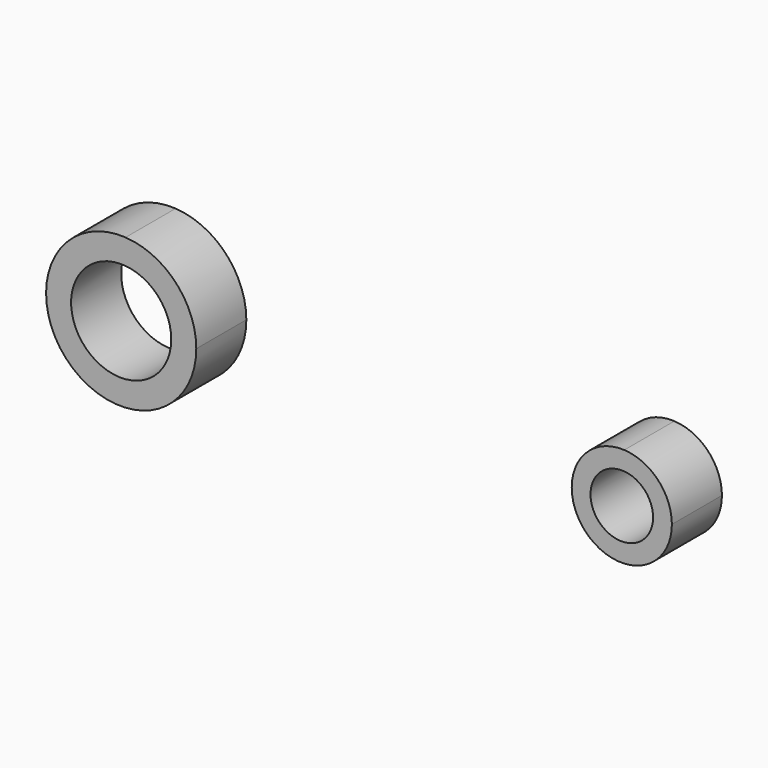
from build123d import *

# Parameters (mm, degrees)
F0_R     = 20
F0_R_2   = 12.5
F1_DEPTH = 12.5


with BuildPart() as f1:
    # F0 (on Front) → F1 (new body, symmetric)
    with BuildSketch(Plane.XZ):
        with BuildLine():
            ThreePointArc((-78.139045, -29.962477), (-57.90198, -20.676073), (-49.639045, 0))
            ThreePointArc((-49.639045, 0), (-57.816969, 20.586331), (-77.89218, 29.949098))
            ThreePointArc((-77.89218, 29.949098), (-109.63879, 0.123614), (-78.139045, -29.962477))
        make_face()
        with Locations((-79.639045, 0)):
            Circle(F0_R, mode=Mode.SUBTRACT)
        with BuildLine():
            ThreePointArc((140.360955, 0), (134.852297, 13.784086), (121.360853, 19.974989))
            ThreePointArc((121.360853, 19.974989), (100.360955, -5.1e-05), (121.360955, -19.974984))
            ThreePointArc((121.360955, -19.974984), (134.852332, -13.784049), (140.360955, 0))
        make_face()
        with Locations((120.360955, 0)):
            Circle(F0_R_2, mode=Mode.SUBTRACT)
    extrude(amount=F1_DEPTH, both=True)


solid = f1.part
